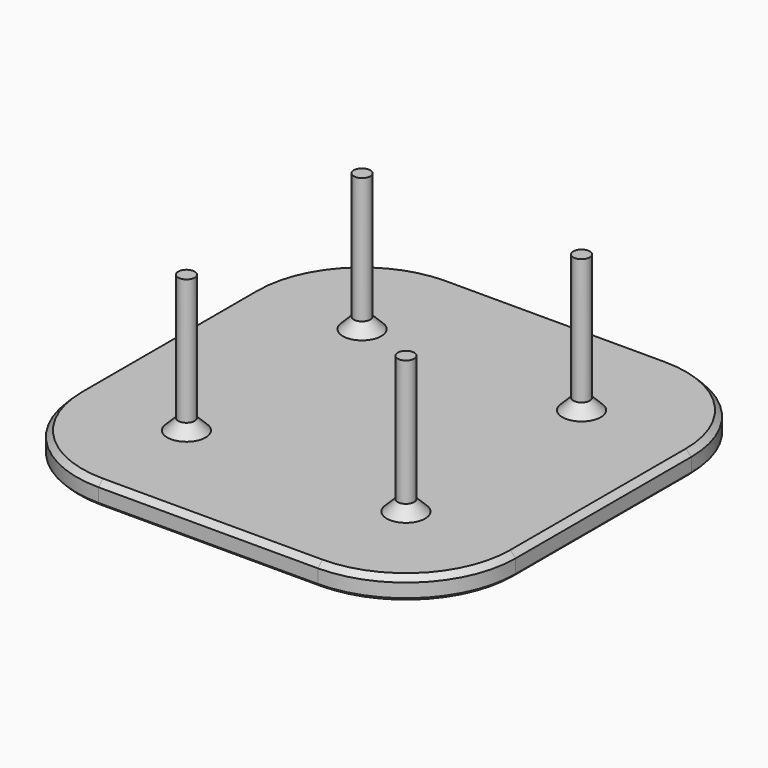
from build123d import *

# Parameters (mm, degrees)
SKETCH_W        = 80
SKETCH_H        = 80
PAD_DEPTH       = 4
SKETCH001_R     = 1.5
PAD001_DEPTH    = 25
FILLET_R        = 20
CHAMFER_SIZE    = 2
CHAMFER001_SIZE = 0.5
CHAMFER002_SIZE = 1


with BuildPart() as part:
    # Sketch → Pad (new body)
    with BuildSketch(Plane.XY):
        with Locations((40, 40)):
            Rectangle(SKETCH_W, SKETCH_H)
    extrude(amount=PAD_DEPTH)

    # Sketch001 → Pad001 (new body)
    with BuildSketch(Plane.XY.offset(4)):
        with Locations((60, 60)):
            Circle(SKETCH001_R)
        with Locations((20, 60)):
            Circle(SKETCH001_R)
        with Locations((20, 20)):
            Circle(SKETCH001_R)
        with Locations((60, 20)):
            Circle(SKETCH001_R)
    extrude(amount=PAD001_DEPTH)

    # Fillet
    fillet_edges = [part.edges().sort_by_distance(p)[0] for p in [
        (80, 0, 2),
        (80, 80, 2),
        (0, 0, 2),
        (0, 80, 2),
    ]]
    fillet(fillet_edges, radius=FILLET_R)

    # Chamfer
    chamfer_edges = [part.edges().sort_by_distance(p)[0] for p in [
        (58.5, 20, 4),
        (18.5, 20, 4),
        (18.5, 60, 4),
        (58.5, 60, 4),
    ]]
    chamfer(chamfer_edges, length=CHAMFER_SIZE)

    # Chamfer001
    chamfer001_edges = [part.edges().sort_by_distance(p)[0] for p in [
        (40, 80, 0),
        (5.857864, 74.142136, 0),
        (74.142136, 74.142136, 0),
        (0, 40, 0),
        (80, 40, 0),
        (5.857864, 5.857864, 0),
        (74.142136, 5.857864, 0),
        (40, 0, 0),
    ]]
    chamfer(chamfer001_edges, length=CHAMFER001_SIZE)

    # Chamfer002
    chamfer002_edges = [part.edges().sort_by_distance(p)[0] for p in [
        (74.142136, 5.857864, 4),
        (80, 40, 4),
        (74.142136, 74.142136, 4),
        (40, 80, 4),
        (5.857864, 74.142136, 4),
        (0, 40, 4),
        (5.857864, 5.857864, 4),
        (40, 0, 4),
    ]]
    chamfer(chamfer002_edges, length=CHAMFER002_SIZE)


solid = part.part
